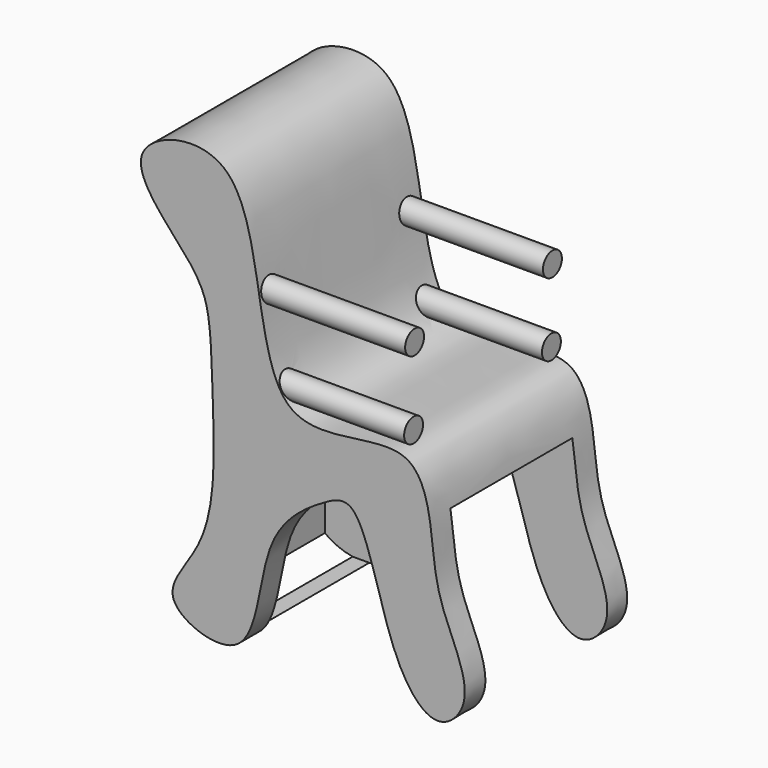
from build123d import *

# Parameters (mm, degrees)
F1_DEPTH      = 60
F2_W          = 45.0465110302
F2_H          = 52
F3_DEPTH      = 33.4520994369
F3_DEPTH_BACK = 50
F5_R          = 3.5
F6_DEPTH      = 45.2


with BuildPart() as f1:
    # F0 (on Front) → F1 (new body)
    with BuildSketch(Plane.XZ):
        with BuildLine():
            add(Edge.make_bspline(
                [(-47.7710589767, 36.235012114), (-43.7642724148, 31.1160315947), (-41.5201732604, 22.8263772636), (-41.0342967143, -0.4266494674), (-39.7721135289, -35.0391294545), (-60.8962447913, -53.8213770815), (-26.8414225677, -66.8164442076), (-28.1906958044, -26.4163986537), (-9.9380668558, -13.766575293), (3.4603799669, -7.0238591561), (10.1739045947, -47.125094742), (25.0942461106, -63.2821832605), (36.674530662, -50.7409715675), (28.0750803172, -32.9274014269), (23.5725027286, -19.58475153), (22.5970221879, 17.6043970945), (-32.36384065, -9.9003703935), (-22.9180220022, 77.2282902642), (-74.9379369652, 62.0970116083), (-53.2569151379, 43.2436187338), (-47.7710589767, 36.235012114)],
                knots=[0, 0, 0, 0, 0.0439681036, 0.0985166676, 0.1665645002, 0.2173155858, 0.2671322301, 0.3310994695, 0.3848127846, 0.418903981, 0.4881117083, 0.5369963808, 0.5748023959, 0.6230415351, 0.6696992183, 0.7278236125, 0.7947206169, 0.8826218544, 0.9398014623, 1, 1, 1, 1], degree=3))
        make_face()
    extrude(amount=F1_DEPTH)

    # F2 (on Right) → F3 (cut, two sides)
    with BuildSketch(Plane.YZ) as f3_sk:
        with Locations((-29.8754060641, -33.5728507489)):
            Rectangle(F2_W, F2_H)
    extrude(amount=F3_DEPTH, mode=Mode.SUBTRACT)
    extrude(f3_sk.sketch, amount=-F3_DEPTH_BACK, mode=Mode.SUBTRACT)

    # F5 (on offset) → F6 (join)
    with BuildSketch(Plane.YZ.offset(-30)):
        with Locations((-55.7264350355, 34.4883650541)):
            Circle(F5_R)
        with Locations((-56.1023280025, 11.7467185482)):
            Circle(F5_R)
        with Locations((-4.7926604748, 34.1124720871)):
            Circle(F5_R)
        with Locations((-5.1685553044, 12.6864565536)):
            Circle(F5_R)
    extrude(amount=F6_DEPTH)


solid = f1.part
